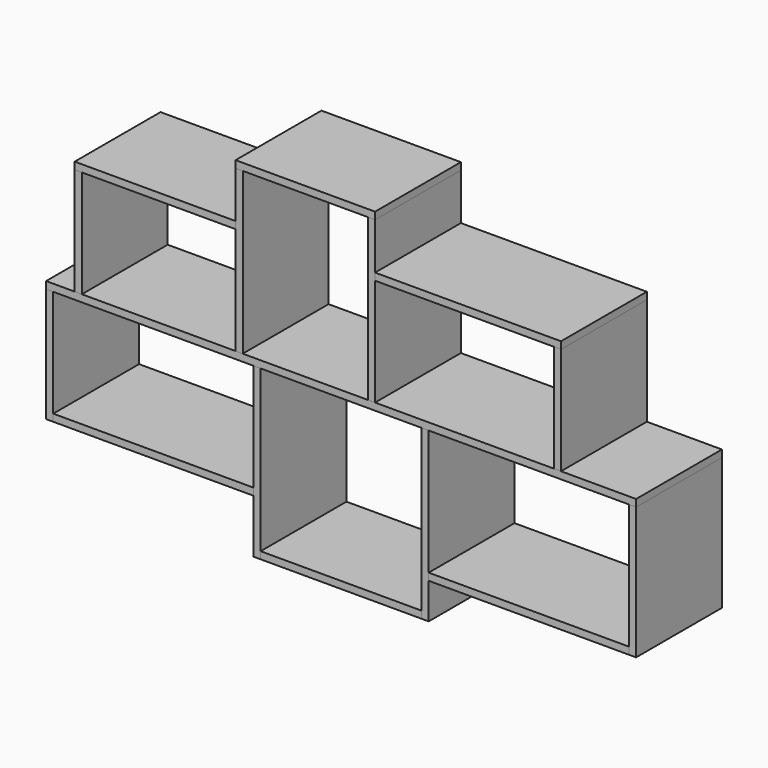
from build123d import *

# Parameters (mm, degrees)
F0_W      = 1650
F0_H      = 300
F1_DEPTH  = 20
F2_W      = 20
F2_H      = 300
F3_DEPTH  = 300
F4_W      = 20
F4_H      = 300
F5_DEPTH  = 450
F6_W      = 20
F6_H      = 300
F7_DEPTH  = 450
F8_W      = 20
F8_H      = 300
F9_DEPTH  = 300
F10_W     = 450
F10_H     = 300
F11_DEPTH = 20
F12_W     = 390
F12_H     = 300
F13_DEPTH = 20
F14_W     = 520
F14_H     = 300
F15_DEPTH = 20
F16_W     = 20
F16_H     = 300
F17_DEPTH = 320
F18_W     = 20
F18_H     = 300
F19_DEPTH = 470
F20_W     = 20
F20_H     = 300
F21_DEPTH = 470
F22_W     = 20
F22_H     = 300
F23_DEPTH = 370
F24_W     = 300
F24_H     = 20
F25_DEPTH = 560
F26_W     = 300
F26_H     = 20
F27_DEPTH = 450
F28_W     = 300
F28_H     = 20
F29_DEPTH = 560


with BuildPart() as f1:
    # F0 (on Top) → F1 (new body)
    with BuildSketch(Plane.XY):
        with Locations((0, -0.282021)):
            Rectangle(F0_W, F0_H)
    extrude(amount=F1_DEPTH)


with BuildPart() as f3:
    # F2 (on face) → F3 (new body)
    with BuildSketch(Plane.XY.offset(20)):
        with Locations((-735, -0.282021)):
            Rectangle(F2_W, F2_H)
    extrude(amount=F3_DEPTH)


with BuildPart() as f5:
    # F4 (on face) → F5 (new body)
    with BuildSketch(Plane.XY.offset(20)):
        with Locations((-285, -0.282021)):
            Rectangle(F4_W, F4_H)
    extrude(amount=F5_DEPTH)


with BuildPart() as f7:
    # F6 (on face) → F7 (new body)
    with BuildSketch(Plane.XY.offset(20)):
        with Locations((85, -0.282021)):
            Rectangle(F6_W, F6_H)
    extrude(amount=F7_DEPTH)


with BuildPart() as f9:
    # F8 (on face) → F9 (new body)
    with BuildSketch(Plane.XY.offset(20)):
        with Locations((605, -0.282021)):
            Rectangle(F8_W, F8_H)
    extrude(amount=F9_DEPTH)


with BuildPart() as f11:
    # F10 (on face) → F11 (new body)
    with BuildSketch(Plane.XY.offset(320)):
        with Locations((-520, -0.282021)):
            Rectangle(F10_W, F10_H)
    extrude(amount=F11_DEPTH)


with BuildPart() as f13:
    # F12 (on face) → F13 (new body)
    with BuildSketch(Plane.XY.offset(470)):
        with Locations((-100, -0.282021)):
            Rectangle(F12_W, F12_H)
    extrude(amount=F13_DEPTH)


with BuildPart() as f15:
    # F14 (on face) → F15 (new body)
    with BuildSketch(Plane.XY.offset(320)):
        with Locations((355, -0.282021)):
            Rectangle(F14_W, F14_H)
    extrude(amount=F15_DEPTH)


with BuildPart() as f17:
    # F16 (on face) → F17 (new body)
    with BuildSketch(Plane(origin=(0, 0, 0), x_dir=(1, 0, 0), z_dir=(0, 0, -1))):
        with Locations((-815, 0.282021)):
            Rectangle(F16_W, F16_H)
    extrude(amount=F17_DEPTH)


with BuildPart() as f19:
    # F18 (on face) → F19 (new body)
    with BuildSketch(Plane(origin=(0, 0, 0), x_dir=(1, 0, 0), z_dir=(0, 0, -1))):
        with Locations((-235, 0.282021)):
            Rectangle(F18_W, F18_H)
    extrude(amount=F19_DEPTH)


with BuildPart() as f21:
    # F20 (on face) → F21 (new body)
    with BuildSketch(Plane(origin=(0, 0, 0), x_dir=(1, 0, 0), z_dir=(0, 0, -1))):
        with Locations((235, 0.282021)):
            Rectangle(F20_W, F20_H)
    extrude(amount=F21_DEPTH)


with BuildPart() as f23:
    # F22 (on face) → F23 (new body)
    with BuildSketch(Plane(origin=(0, 0, 0), x_dir=(1, 0, 0), z_dir=(0, 0, -1))):
        with Locations((815, 0.282021)):
            Rectangle(F22_W, F22_H)
    extrude(amount=F23_DEPTH)


with BuildPart() as f25:
    # F24 (on face) → F25 (new body, through all)
    with BuildSketch(Plane.YZ.offset(-805)):
        with Locations((-0.282021, -310)):
            Rectangle(F24_W, F24_H)
    extrude(amount=F25_DEPTH)


with BuildPart() as f27:
    # F26 (on face) → F27 (new body, through all)
    with BuildSketch(Plane.YZ.offset(-225)):
        with Locations((-0.282021, -460)):
            Rectangle(F26_W, F26_H)
    extrude(amount=F27_DEPTH)


with BuildPart() as f29:
    # F28 (on face) → F29 (new body, through all)
    with BuildSketch(Plane(origin=(805, 0, 0), x_dir=(0, -1, 0), z_dir=(-1, 0, 0))):
        with Locations((0.282021, -360)):
            Rectangle(F28_W, F28_H)
    extrude(amount=F29_DEPTH)


solid = Compound([f1.part, f3.part, f5.part, f7.part, f9.part, f11.part, f13.part, f15.part, f17.part, f19.part, f21.part, f23.part, f25.part, f27.part, f29.part])
